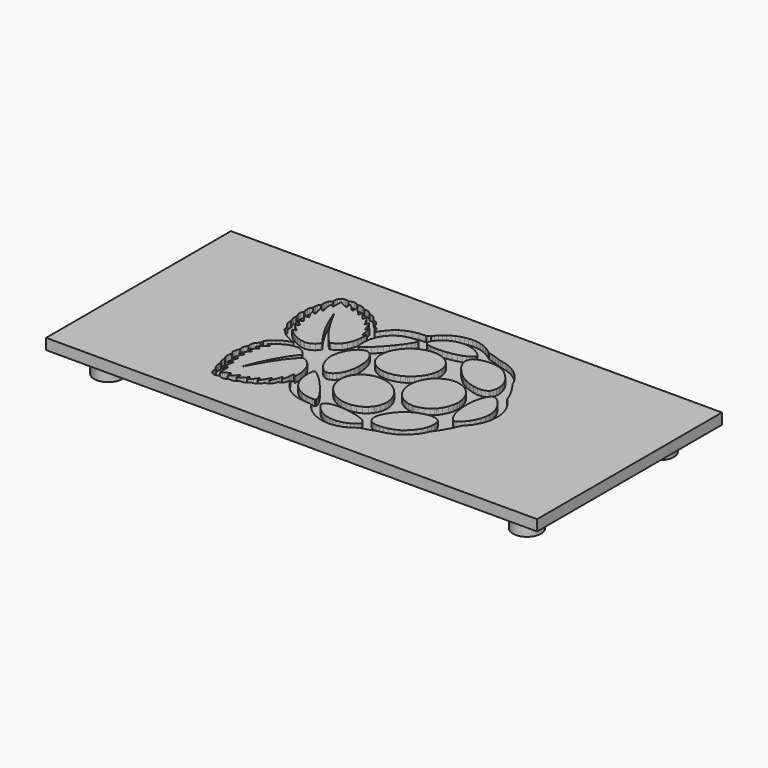
from build123d import *

# Parameters (mm, degrees)
F2_START = 6.1
F0_W     = 68
F0_H     = 32
F0_R     = 1.95
F0_R_2   = 1.45
F2_DEPTH = 1.5
F3_START = 3
F3_DEPTH = 3.1
F4_START = 6.8
F4_DEPTH = 1.2


with BuildPart() as f2:
    # F0 (on Top) → F2 (new body)
    with BuildSketch(Plane.XY.offset(F2_START)):
        Rectangle(F0_W, F0_H)
        with Locations((-29, -11.5)):
            Circle(F0_R, mode=Mode.SUBTRACT)
        with Locations((29, -11.5)):
            Circle(F0_R, mode=Mode.SUBTRACT)
        with Locations((-29, 11.5)):
            Circle(F0_R, mode=Mode.SUBTRACT)
        with Locations((29, 11.5)):
            Circle(F0_R, mode=Mode.SUBTRACT)
        with Locations((-29, 11.5)):
            Circle(F0_R)
        with Locations((-29, 11.5)):
            Circle(F0_R_2, mode=Mode.SUBTRACT)
        with Locations((-29, -11.5)):
            Circle(F0_R)
        with Locations((-29, -11.5)):
            Circle(F0_R_2, mode=Mode.SUBTRACT)
        with Locations((29, -11.5)):
            Circle(F0_R)
        with Locations((29, -11.5)):
            Circle(F0_R_2, mode=Mode.SUBTRACT)
        with Locations((29, 11.5)):
            Circle(F0_R)
        with Locations((29, 11.5)):
            Circle(F0_R_2, mode=Mode.SUBTRACT)
        with Locations((-29, 11.5)):
            Circle(F0_R_2)
        with Locations((-29, -11.5)):
            Circle(F0_R_2)
        with Locations((29, -11.5)):
            Circle(F0_R_2)
        with Locations((29, 11.5)):
            Circle(F0_R_2)
    extrude(amount=F2_DEPTH)

    # F0 (on Top) → F3 (join)
    with BuildSketch(Plane.XY.offset(F3_START)):
        with Locations((-29, 11.5)):
            Circle(F0_R)
        with Locations((-29, 11.5)):
            Circle(F0_R_2, mode=Mode.SUBTRACT)
        with Locations((-29, -11.5)):
            Circle(F0_R)
        with Locations((-29, -11.5)):
            Circle(F0_R_2, mode=Mode.SUBTRACT)
        with Locations((29, -11.5)):
            Circle(F0_R)
        with Locations((29, -11.5)):
            Circle(F0_R_2, mode=Mode.SUBTRACT)
        with Locations((29, 11.5)):
            Circle(F0_R)
        with Locations((29, 11.5)):
            Circle(F0_R_2, mode=Mode.SUBTRACT)
    extrude(amount=F3_DEPTH)

    # F1 (on Top) → F4 (cut)
    with BuildSketch(Plane.XY.offset(F4_START)):
        Polygon((-16.2235200614, -5.8005121054), (-16.2232631265, -5.8000410581), (-16.2220640972, -5.8404654734), (-16.1695637444, -6.0530362332), (-16.0420384175, -6.2832926748), (-16.0030271438, -6.3325385196), (-16.0369425431, -6.4201104785), (-16.1150079128, -6.6916906072), (-16.1510216132, -7.0418071529), (-16.0810496911, -7.3800618733), (-15.9381939185, -7.632842936), (-15.8747310124, -7.7027720357), (-15.8880059793, -7.8040900087), (-15.8931018537, -8.1121548851), (-15.8364477208, -8.393969585), (-15.7260513834, -8.5842255538), (-15.6219499497, -8.6890121472), (-15.5834097233, -8.7192105557), (-15.5838807705, -8.7410500173), (-15.5894905145, -8.8065641199), (-15.5977980744, -8.951766564), (-15.5977980744, -9.1401854487), (-15.5790418309, -9.3564817637), (-15.5304383232, -9.58602307), (-15.4414532227, -9.8137015986), (-15.3016378458, -10.0246536689), (-15.1552706304, -10.1666058873), (-15.0997298819, -10.2037800767), (-15.1104355003, -10.2936858605), (-15.1076092171, -10.5676040963), (-15.0444460682, -10.8635887528), (-14.9205606516, -11.0917297641), (-14.747515035, -11.2522669361), (-14.5356294347, -11.3452002687), (-14.2960805164, -11.370756721), (-14.0396167209, -11.3289405754), (-13.8391218987, -11.2538984723), (-13.7768580218, -11.2199745086), (-13.7145941449, -11.2603989238), (-13.5212934983, -11.3723796928), (-13.2378943668, -11.4583458089), (-12.8974985227, -11.408855876), (-12.5673372498, -11.2308942394), (-12.4706869265, -11.154460406), (-12.4082089372, -11.1860548271), (-12.1972226089, -11.2341444652), (-11.9075285738, -11.203016809), (-11.5969371714, -11.0592060953), (-11.3393171692, -10.8712539756), (-11.2607379298, -10.8003956282), (-11.1763776564, -10.8192161055), (-10.9120345258, -10.8245560679), (-10.6118489845, -10.7392922404), (-10.3539720474, -10.5594721085), (-10.1804125612, -10.3696614934), (-10.1316377635, -10.2999636351), (-10.0199139295, -10.3120395727), (-9.671167703, -10.2295677705), (-9.3154842357, -9.9872525203), (-9.0615469662, -9.6917303465), (-8.9419009745, -9.5146979576), (-8.9063154987, -9.4621933225), (-8.8319756843, -9.4473253596), (-8.6136667129, -9.376929495), (-8.3429858561, -9.2077935703), (-8.1078476526, -8.9034456846), (-7.9551855336, -8.5389236588), (-7.9222550512, -8.4125545387), (-7.8276602066, -8.391614349), (-7.5604479702, -8.2536403385), (-7.3349020008, -7.9978188801), (-7.1976131499, -7.6793053201), (-7.1232305129, -7.4193300818), (-7.0997637973, -7.3322291701), (-7.016131506, -7.4762411494), (-6.7477630628, -7.8979568712), (-6.3523831624, -8.4299832855), (-5.8970517986, -8.9155301867), (-5.3645543371, -9.3411470359), (-4.7386182379, -9.6942868482), (-4.0023714461, -9.961696068), (-3.1391131972, -10.1303609454), (-2.3833393574, -10.1879828662), (-2.1314575666, -10.1870536185), (-1.7286265557, -10.4128693695), (-1.6768113624, -10.4983687206), (-1.4999973682, -10.7413862594), (-1.2200668571, -11.0598998193), (-0.8929459798, -11.3628559746), (-0.5235164985, -11.6446706746), (-0.1160606605, -11.8992973859), (0.3251392869, -12.1211734693), (0.795415694, -12.304710592), (1.2904863134, -12.4441063086), (1.8060260752, -12.5335538919), (2.3371103951, -12.5674735734), (2.8798424278, -12.5400586256), (3.4297686361, -12.4457335626), (3.9819644355, -12.2786873747), (4.5323616911, -12.0331176165), (5.0764640429, -11.7034488021), (5.4832775439, -11.3963131734), (5.6101177112, -11.2838699217), (5.765563291, -11.2552902027), (6.2279175405, -11.1437719165), (6.782468576, -10.9753382804), (7.3031042122, -10.7917968755), (7.6899196179, -10.6514761934), (7.819543246, -10.6063969753), (8.0691126232, -10.5743400714), (8.8060017521, -10.3838357323), (9.6558565668, -10.0169884461), (10.3735184049, -9.5502406109), (10.9622417744, -9.0270484729), (11.4264373902, -8.4917761152), (11.7698008318, -7.9880981785), (11.9963188713, -7.5599162632), (12.0901814516, -7.3306019161), (12.1101624179, -7.2511234047), (12.2416573881, -7.0782919005), (12.6236038785, -6.5492630594), (13.1084741847, -5.7983709817), (13.5496570031, -4.9715546579), (13.8488961676, -4.2789867894), (13.9320659762, -4.0422213319), (14.1560275141, -3.8250257448), (14.7496240811, -3.0918193487), (15.2983812359, -2.1116129238), (15.606214871, -1.1105091318), (15.7023984293, -0.350581512), (15.7023984293, -0.0973294021), (15.7023984293, -0.0824700037), (15.7023984293, -0.0424738132), (15.7023984293, -0.0373779388), (15.7023984293, 0.2156172363), (15.6064461123, 0.9755448561), (15.2983812359, 1.9766486482), (14.7496240811, 2.956855073), (14.1560275141, 3.6900614691), (13.9320659762, 3.907513991), (13.8488961676, 4.1439796912), (13.5496570031, 4.8365903822), (13.1084741847, 5.6631925936), (12.6236038785, 6.4142987837), (12.2416573881, 6.9433276249), (12.1101624179, 7.1164160639), (12.0904169752, 7.1956376404), (11.9963188713, 7.4249519875), (11.7698008318, 7.8529197905), (11.4264373902, 8.3565977271), (10.9622417744, 8.8921355842), (10.3735184049, 9.4150408116), (9.6558565668, 9.8820198882), (8.8060017521, 10.2488800211), (8.0691126232, 10.4393972069), (7.819543246, 10.4716853522), (7.6899196179, 10.5165204822), (7.3031042122, 10.6568069063), (6.782468576, 10.8403440289), (6.2279175405, 11.0088076408), (5.765563291, 11.1203173625), (5.6101177112, 11.1491797099), (5.4832775439, 11.2613317687), (5.0764640429, 11.5685401956), (4.5323616911, 11.8981447763), (3.9817503232, 12.1437316635), (3.4295117013, 12.3107821337), (2.879585493, 12.4051200434), (2.3368962827, 12.4325264266), (1.805555028, 12.3986110274), (1.2902293785, 12.3091548797), (0.7951587591, 12.1697677275), (0.3247110622, 11.9862306049), (-0.1164888852, 11.7643245457), (-0.5239875457, 11.5094451818), (-0.8934170271, 11.2278874167), (-1.2205379043, 10.9249184147), (-1.5004684154, 10.6061907423), (-1.6772824096, 10.3631732036), (-1.7290976029, 10.2779136583), (-2.1319286138, 10.0518966417), (-2.3837675821, 10.0525389788), (-3.1393273095, 9.9948999291), (-4.002628381, 9.8263078498), (-4.7388751727, 9.5588386785), (-5.364811272, 9.2057245597), (-5.897265911, 8.7801119928), (-6.3526400972, 8.2945479626), (-6.7482769325, 7.7624787258), (-7.0166025532, 7.3408058265), (-7.1002348445, 7.197050782), (-7.1234874478, 7.2838947588), (-7.1978272622, 7.5439128197), (-7.3351161132, 7.8624263796), (-7.5607049051, 8.1182050155), (-7.8280884314, 8.2562218486), (-7.922683276, 8.2773761506), (-7.9554424684, 8.4035311584), (-8.1082758773, 8.7680360552), (-8.3431999685, 9.0726323112), (-8.6140521152, 9.2417382602), (-8.8324467315, 9.3118814722), (-8.906786546, 9.3269978055), (-8.9423720217, 9.379284046), (-9.0620180134, 9.556526265), (-9.3159552829, 9.8518300442), (-9.6716815727, 10.0941196008), (-10.0203849767, 10.1765956853), (-10.1321088108, 10.1647766826), (-10.1808836084, 10.234234735), (-10.3544430946, 10.4242808737), (-10.6123200318, 10.6041352636), (-10.912505573, 10.689137874), (-11.1771056385, 10.6838278873), (-11.261208977, 10.6652001112), (-11.3397025714, 10.7358571929), (-11.5973653962, 10.9238050303), (-11.907999621, 11.0676028973), (-12.1976936561, 11.0987348357), (-12.4086799845, 11.0506023752), (-12.4712007962, 11.0192563244), (-12.5675941847, 11.0956944401), (-12.8977554575, 11.2736646412), (-13.2380656567, 11.3231674208), (-13.5215076106, 11.2369657811), (-13.7148082573, 11.1249421897), (-13.7770721342, 11.0848175318), (-13.8393788335, 11.1184759962), (-14.0398736558, 11.1935437927), (-14.2962946288, 11.2351244147), (-14.5358863696, 11.2095165754), (-14.7477291474, 11.1166346298), (-14.9208175864, 10.9560931756), (-15.0444460682, 10.7279350353), (-15.1078661519, 10.4319460965), (-15.1104355003, 10.1580535542), (-15.0997298819, 10.0681263592), (-15.1552706304, 10.030956452), (-15.3016378458, 9.8889999514), (-15.4414532227, 9.6780136231), (-15.5304383232, 9.4503693524), (-15.5790418309, 9.2210978278), (-15.5980550093, 9.0045445779), (-15.5977980744, 8.8163398056), (-15.5896618044, 8.6709146847), (-15.5841377053, 8.6053962998), (-15.5836666581, 8.583813773), (-15.6222068845, 8.5533669941), (-15.7262654958, 8.4485375783), (-15.8366618332, 8.2582773273), (-15.8933587885, 7.9767195622), (-15.8882200916, 7.6686546858), (-15.8749879472, 7.5675936477), (-15.9384508534, 7.4974076131), (-16.0813066259, 7.2446265504), (-16.1512357256, 6.9064146525), (-16.1151792027, 6.5562552843), (-16.0369425431, 6.2847179781), (-16.0032840787, 6.1973173091), (-16.0710720547, 6.1113726042), (-16.2060913145, 5.7995821726), (-16.2007385053, 5.4513498158), (-16.0848180688, 5.129324813), (-15.981615907, 4.8919170183), (-15.9558796002, 4.8103830282), (-15.989752177, 4.7067098192), (-16.0364714959, 4.37868967), (-15.9830290486, 4.08060243), (-15.8635971692, 3.848761557), (-15.7679317628, 3.6765723899), (-15.7453643191, 3.6159785895), (-15.7699872415, 3.4995871058), (-15.7776524643, 3.1364097056), (-15.6652006482, 2.7925880636), (-15.4537860951, 2.5228493013), (-15.2547044145, 2.3299768793), (-15.1889290948, 2.265229299), (-15.1973222996, 1.8428284176), (-15.1352725351, 1.7373566647), (-14.9150365525, 1.4408966787), (-14.5830339132, 1.0905660207), (-14.2178010343, 0.7889673378), (-13.8349681187, 0.5341307963), (-13.450679239, 0.3234014028), (-13.0808215329, 0.1545095662), (-12.7413677833, 0.0246718257), (-12.5222880074, -0.0473555752), (-12.4484192401, -0.0682957648), (-12.5222880074, -0.0894072444), (-12.7413677833, -0.1614346453), (-13.0808215329, -0.2911010959), (-13.450679239, -0.4599929325), (-13.8349681187, -0.6705082136), (-14.2178010343, -0.9251306428), (-14.5830339132, -1.2261726334), (-14.9150365525, -1.5763320016), (-15.1352725351, -1.8727919876), (-15.1973222996, -1.9780068056), (-15.1889290948, -2.400407687), (-15.2547044145, -2.4654122022), (-15.4537860951, -2.658541559), (-15.6652006482, -2.9284944337), (-15.7776524643, -3.2723160757), (-15.7699872415, -3.6354078309), (-15.7453643191, -3.7515852023), (-15.7679317628, -3.81247876), (-15.8635971692, -3.9845822821), (-15.9830290486, -4.2162518653), (-16.0364714959, -4.5143391053), (-15.989752177, -4.8426161893), (-15.9558796002, -4.9459468186), (-15.9727944774, -4.9996890232), (-16.0371566555, -5.1565049221), (-16.1270838504, -5.3646649672), (-16.1983832692, -5.5772357271), (-16.2253614277, -5.7449713569), align=None)
        Polygon((-6.586536449, -4.3584653007), (-6.5438424426, -4.1058555279), (-6.5387037458, -4.0745094771), (-6.455114277, -3.9913910555), (-6.2645542686, -4.0222660591), (-5.9892914072, -4.1798099401), (-5.6456410551, -4.4451379877), (-5.2509034917, -4.7989372661), (-4.8216081921, -5.222922579), (-4.3745843882, -5.6977809908), (-3.9261902653, -6.2047562579), (-3.4936404576, -6.7247067345), (-3.093550085, -7.239304402), (-2.7427483798, -7.7290222121), (-2.4579361067, -8.1753180339), (-2.2555142731, -8.5591358664), (-2.1528688035, -8.8616252567), (-2.1660581254, -9.0639785743), (-2.274570274, -9.144137963), (-2.3124253408, -9.146925706), (-2.5800658019, -9.1552889352), (-3.3862845158, -9.072350368), (-4.3222981478, -8.793323411), (-5.1117732744, -8.3323908677), (-5.745331774, -7.7130066069), (-6.2144091518, -6.9577038144), (-6.5098842209, -6.0895209809), (-6.6225929719, -5.1311540177), align=None, mode=Mode.SUBTRACT)
        Polygon((-13.1131096782, -7.639351952), (-13.2613182599, -8.0745139306), (-13.1216741729, -7.8033620266), (-12.6893384776, -6.9965009756), (-12.1436088717, -6.0318819312), (-11.6236583951, -5.1753039881), (-11.1273887464, -4.4209004675), (-10.6541575886, -3.76348985), (-10.2024661352, -3.1970341668), (-9.7708584219, -2.716566011), (-9.4651059591, -2.4122266898), (-9.3580069522, -2.3163043485), (-9.1870168144, -2.3589983549), (-8.7002965774, -2.5922951921), (-8.1994021015, -3.0200060602), (-7.8348543822, -3.5557152072), (-7.5862699219, -4.156300402), (-7.4331795782, -4.777782964), (-7.3548572736, -5.3767409048), (-7.3314333804, -5.9097094135), (-7.3358012728, -6.2270667667), (-7.341882064, -6.3325385196), (-7.3583687165, -6.2974240911), (-7.4134384177, -6.1949499114), (-7.4952293427, -6.0759890792), (-7.5908947491, -5.9823791515), (-7.6747839752, -5.9315488751), (-7.7047597069, -5.9210573691), (-7.7442420277, -5.9765981175), (-7.7837243485, -6.1982044194), (-7.8179395051, -6.621076348), (-7.8825157956, -7.1091669041), (-7.9909851216, -7.4746567179), (-8.0516217445, -7.5824408844), (-8.0595010797, -7.5452709771), (-8.0883206045, -7.434446415), (-8.1359391954, -7.3198962976), (-8.2061252299, -7.2279136239), (-8.2823064108, -7.1647076526), (-8.309712794, -7.1470647934), (-8.3429858561, -7.2515944519), (-8.4401072267, -7.5656972971), (-8.5766680956, -7.9731959577), (-8.7351112486, -8.342625439), (-8.8733850164, -8.5781918672), (-8.9307671313, -8.6469561956), (-8.9305530189, -8.6118760251), (-8.9258853693, -8.5063785787), (-8.9300391492, -8.3623665994), (-8.9669949441, -8.2076061791), (-9.0320422818, -8.0742569958), (-9.0597055998, -8.0340895154), (-9.1266371264, -8.1581462219), (-9.4504606731, -8.7837954106), (-9.8447271892, -9.3669390118), (-9.9467303218, -9.469627304), (-9.9478865285, -9.4217689073), (-9.9513551489, -9.2772601873), (-9.9622748797, -9.0974357731), (-9.989681263, -8.950606075), (-10.0242818218, -8.8732429939), (-10.043551935, -8.856747777), (-10.1139949044, -8.9703557999), (-10.4887343724, -9.4847307905), (-10.8936636845, -9.9307953709), (-10.9789232298, -10.0100169474), (-10.9722001014, -9.9523993089), (-10.9608093234, -9.7776878981), (-10.9678322091, -9.6097167447), (-10.9942964979, -9.4926272546), (-11.0226021531, -9.4312926254), (-11.0353632503, -9.4131701545), (-11.1018237296, -9.4782217745), (-11.2916557558, -9.682669111), (-11.5453360905, -9.9561162996), (-11.8141755809, -10.2042425595), (-12.0359959951, -10.3587417626), (-12.116159666, -10.3970721589), (-12.0999299485, -10.3494450036), (-12.0599765804, -10.2023883464), (-12.035353658, -10.0204741955), (-12.0532534521, -9.8552865029), (-12.1004009957, -9.7428432512), (-12.1243387585, -9.7114800714), (-12.1770532238, -9.7349425048), (-12.3101882948, -9.8615599953), (-12.5088417506, -10.0992332893), (-12.7731848813, -10.3689677694), (-13.054528534, -10.5671373313), (-13.1565316666, -10.6147687689), (-13.1516499046, -10.5624953751), (-13.1365335713, -10.405435388), (-13.1235583618, -10.2135393185), (-13.1270269822, -10.0629883474), (-13.1421433154, -9.9918944765), (-13.1565316666, -9.9777245199), (-13.2476150683, -10.0000264642), (-13.5145703699, -10.0913325428), (-13.8079471378, -10.2307282595), (-14.0600858634, -10.3866191931), (-14.235486716, -10.5088216865), (-14.2933398781, -10.5499441081), (-14.2951812445, -10.427972856), (-14.2977505929, -10.0618278584), (-14.3019043728, -9.5757970632), (-14.3141944228, -9.2098875892), (-14.3418577409, -9.0823365688), (-14.7207938114, -9.4531278048), (-14.7493992239, -9.3471935692), (-14.7814732567, -9.0140347232), (-14.7502984958, -8.5863195728), (-14.6643537909, -8.1869657468), (-14.5871876932, -7.9204814924), (-14.5595671976, -7.8321815515), (-14.5809784345, -7.8052462155), (-14.6824676973, -7.7541161818), (-14.8169730875, -7.7906009294), (-14.9601286174, -7.9084055548), (-15.0722806762, -8.0317771018), (-15.1078661519, -8.0742569958), (-15.0913794995, -7.949729242), (-14.9728468921, -7.3626759489), (-14.8086227051, -6.821100123), (-14.7691403843, -6.7193539253), (-14.7940202416, -6.6919475421), (-14.9164068716, -6.6524223988), (-15.0637161814, -6.7300595437), (-15.2107685564, -6.8810515863), (-15.3183386105, -6.999070324), (-15.3578209314, -7.0339278177), (-15.333925991, -6.9077728099), (-15.238389052, -6.5332474542), (-15.1020422955, -6.1573517794), (-14.9545188733, -5.8648742835), (-14.840696738, -5.6764553988), (-14.8014285295, -5.6144056343), (-14.8332456275, -5.581389507), (-14.9647534445, -5.5158711221), (-15.1189571726, -5.5395947726), (-15.2676796241, -5.6371871903), (-15.3773479794, -5.7295980888), (-15.4142609518, -5.7595738204), (-15.3778190266, -5.6606110835), (-15.2426284769, -5.3727584147), (-15.0534816102, -5.0633232192), (-14.8534578352, -4.8038190281), (-14.6998964442, -4.6253777798), (-14.6482953633, -4.5661542986), (-14.6754876341, -4.5461562033), (-14.7535530038, -4.4817940252), (-14.8704155348, -4.4153763684), (-15.0256041798, -4.4060410691), (-15.194281904, -4.4646222132), (-15.2449408905, -4.4933989156), (-15.1857174092, -4.3905393336), (-14.8583395972, -3.9493393862), (-14.4928926059, -3.5991800181), (-14.414356189, -3.5417979032), (-14.4387649991, -3.5036859016), (-14.5463350532, -3.4105470211), (-14.6931304933, -3.3700797834), (-14.8478909136, -3.377273959), (-14.9645393322, -3.3889644943), (-15.0030795586, -3.3887075595), (-14.9161499368, -3.2818226649), (-14.4680127486, -2.8367258724), (-14.0131524321, -2.4394189607), (-13.9224972551, -2.3562148941), (-13.9348301276, -2.3395141293), (-14.0807262958, -2.2619626293), (-14.3330791338, -2.1919907071), (-14.3982977613, -2.1789726751), (-14.2962946288, -2.0737150345), (-13.9622365108, -1.7839781769), (-13.4202324601, -1.3957924521), (-12.8075713277, -1.0607922397), (-12.1598814118, -0.8254399238), (-11.5121486733, -0.7361978884), (-10.8999585882, -0.8391859379), (-10.3581686499, -1.1811662135), (-10.002699295, -1.6378678964), (-9.9222786892, -1.8079587623), (-10.1983123552, -2.1425307499), (-10.9513027342, -3.207268738), (-11.8422671237, -4.7254967235), (-12.6080185999, -6.3518086328), align=None, mode=Mode.SUBTRACT)
        Polygon((-0.9682278888, -9.7342487807), (-1.0376859412, -9.61250877), (-1.0549005757, -9.5490801218), (-1.0341744984, -9.3390572992), (-0.8752602982, -9.1253174858), (-0.5832538495, -8.9678035805), (-0.1808510633, -8.8625545044), (0.3098516638, -8.8061016372), (0.8659871308, -8.7951819064), (1.4651591839, -8.8258470799), (2.0852286043, -8.8946199728), (2.7032425459, -8.9980062712), (3.2973187247, -9.1322889845), (3.8444186498, -9.2937511219), (4.3225315695, -9.4791510221), (4.7091328628, -9.6845276064), (4.981655086, -9.9066306489), (5.1176164402, -10.1415119176), (5.118044665, -10.3327228276), (5.0945779494, -10.3856899454), (5.0385661536, -10.4551565623), (4.8497190443, -10.6463589078), (4.5583549327, -10.8805464524), (4.226138181, -11.0852250303), (3.8592780482, -11.2571444158), (3.4641122601, -11.3935211481), (3.0461220935, -11.4906339541), (2.6117309195, -11.5454638496), (2.1670195292, -11.55499185), (1.7179402467, -11.5157279238), (1.2704882181, -11.4248928924), (0.8309155247, -11.2789838775), (0.405046023, -11.0747677822), (-0.0005684487, -10.8092213401), (-0.3804466136, -10.4793170021), (-0.7282079232, -10.0813420597), align=None, mode=Mode.SUBTRACT)
        Polygon((6.9982938438, -5.4745046125), (7.1258191707, -5.3646649672), (7.2454651625, -5.2654452954), (7.6343788694, -5.0033717559), (8.2024189841, -4.7041283091), (8.8008630552, -4.4757560564), (9.4002920432, -4.327761587), (9.9713725536, -4.2692660878), (10.4850281266, -4.3087484087), (10.9118397228, -4.456014896), (11.1632076439, -4.6400230659), (11.22268806, -4.7194587547), (11.272404952, -4.8019776617), (11.372994943, -5.07839673), (11.4450223439, -5.5267908529), (11.4248101362, -6.043700934), (11.299340288, -6.6092145227), (11.0553806549, -7.2025627195), (10.6799560273, -7.8033620266), (10.159320391, -8.3911433018), (9.6598390568, -8.8205071174), (9.4806698265, -8.9452661125), (9.3261663411, -9.0316904291), (8.842058275, -9.2537977539), (8.2152229038, -9.467533285), (7.6151087562, -9.5925278037), (7.0563611183, -9.6352731971), (6.5535824536, -9.6018202805), (6.121674983, -9.4984339821), (5.7750698802, -9.3313877941), (5.578557548, -9.1720196757), (5.5290547683, -9.1067325322), (5.4735140199, -9.0158932185), (5.3656870309, -8.7071260536), (5.3264188224, -8.2668724829), (5.401486619, -7.7966388982), (5.5799278672, -7.3068782656), (5.8519790431, -6.8083390258), (6.2071914632, -6.3111701052), (6.6351164437, -5.8265053469), align=None, mode=Mode.SUBTRACT)
        Polygon((-2.7390228246, -2.231473028), (-2.6488386948, -2.094184177), (-2.5592112572, -1.9571522609), (-2.2241682223, -1.5883651167), (-1.7025904916, -1.2004363267), (-1.1038894857, -0.9332669128), (-0.4482345896, -0.7887410638), (0.2438194092, -0.7694709506), (0.9528739301, -0.8781972115), (1.6584598306, -1.1170609703), (2.1793524017, -1.3818751481), (2.3408359503, -1.4885459303), (2.5022766765, -1.5953880024), (2.9504566871, -1.9708126301), (3.4480538324, -2.527033742), (3.8281889322, -3.1380247979), (4.0846527277, -3.7840874599), (4.2117498299, -4.4457803248), (4.2042987194, -5.1037476344), (4.0558332028, -5.7384623408), (3.8514415355, -6.1933654798), (3.7615143405, -6.3304402184), (3.6715871456, -6.4677290694), (3.3365441107, -6.8364733911), (2.8150092025, -7.2244021811), (2.2162653741, -7.491571595), (1.5606533005, -7.636097444), (0.8685564792, -7.6554103797), (0.1595019583, -7.5466412963), (-0.5460839422, -7.30782036), (-1.0669765133, -7.0427492473), (-1.2282031271, -6.9361212876), (-1.3898579656, -6.8294505054), (-1.8380807987, -6.4540258777), (-2.335677944, -5.8975906534), (-2.7157273989, -5.2868137099), (-2.9722768393, -4.6407510479), (-3.0993739415, -3.979058183), (-3.091922831, -3.3208339385), (-2.9434573144, -2.686376167), align=None, mode=Mode.SUBTRACT)
        Polygon((11.3160838753, -0.1208389402), (11.319766608, 0.0225735245), (11.3135145269, 0.1635879307), (11.3230211161, 0.5880014683), (11.3771915454, 1.1714148512), (11.4775246015, 1.7443367279), (11.6192541429, 2.277519349), (11.7967532968, 2.7426142367), (12.0056156304, 3.1108446888), (12.2407281404, 3.3536481151), (12.4328640158, 3.4414770088), (12.4972176294, 3.441948056), (12.569707513, 3.4442604696), (12.7906457843, 3.3689785607), (13.1365785742, 3.1475863713), (13.5062136034, 2.7990970796), (13.8709668706, 2.3458211946), (14.2020316977, 1.8095981779), (14.4708326478, 1.2129954732), (14.648563043, 0.5775956072), (14.7096621486, 0.0883060218), (14.7068786878, -0.0743337337), (14.7140814279, -0.2413842039), (14.664591495, -0.7454903652), (14.5003373323, -1.3930089913), (14.2452438559, -1.9956924873), (13.9299805217, -2.5334999356), (13.5859019449, -2.9858337261), (13.243917387, -3.3317964918), (12.9351545043, -3.5508334452), (12.7509150931, -3.6251732597), (12.6907452352, -3.6226467337), (12.6196556464, -3.6251732597), (12.4033593314, -3.5334046984), (12.1380441306, -3.2683335857), (11.9001395952, -2.8634042736), (11.6952212114, -2.3539024805), (11.5291256824, -1.774942635), (11.4073813894, -1.1622815026), (11.3358250357, -0.5515473815), align=None, mode=Mode.SUBTRACT)
        Polygon((-13.1216741729, 7.7364854843), (-13.2613182599, 8.0075945658), (-13.1133237905, 7.5717474276), (-12.6084468246, 6.2842469309), (-11.8426953485, 4.6581491339), (-10.9517737814, 3.1401780833), (-10.1985692901, 2.0756113851), (-9.9225356241, 1.7415532671), (-10.0031703422, 1.5712482889), (-10.3583827622, 1.1145037835), (-10.9001727005, 0.7727376202), (-11.5123627857, 0.6696211034), (-12.1600527017, 0.7589916062), (-12.8078282626, 0.9943439221), (-13.420489395, 1.3291300221), (-13.9624934456, 1.7174013919), (-14.2962946288, 2.007095427), (-14.3985546962, 2.1125671799), (-14.3332504237, 2.1253282771), (-14.0809404081, 2.1955143117), (-13.93504424, 2.2730658117), (-13.92275419, 2.2900663338), (-14.0133665445, 2.3730134655), (-14.4682696835, 2.7702775548), (-14.9164068716, 3.2151602349), (-15.0032936709, 3.3223020643), (-14.9645393322, 3.3225161767), (-14.8478909136, 3.3109112863), (-14.6931304933, 3.3037171107), (-14.5463350532, 3.3440987034), (-14.4389791114, 3.437066294), (-14.4146131238, 3.4753924081), (-14.4931067183, 3.5327745229), (-14.858596532, 3.8828910686), (-15.1858886991, 4.324091016), (-15.2451978253, 4.4272075328), (-15.1944960164, 4.3982167181), (-15.0258611146, 4.3396783964), (-14.8706724696, 4.3489708732), (-14.7538099387, 4.4153885301), (-14.6757017465, 4.4794937733), (-14.6485094756, 4.4997059809), (-14.7001105565, 4.5587153498), (-14.8536719475, 4.7371565981), (-15.053738545, 4.9968749016), (-15.2427997668, 5.3061388072), (-15.3780759615, 5.5942055883), (-15.4145178867, 5.6933824376), (-15.3775620918, 5.6631925936), (-15.2678937364, 5.5705247603), (-15.1192141075, 5.4729323426), (-14.9650103794, 5.4492515146), (-14.8337166747, 5.514727077), (-14.8015998194, 5.5482142515), (-14.8409108503, 5.6100070812), (-14.9547758081, 5.7982118534), (-15.1022564078, 6.0906893494), (-15.2386459868, 6.4665850242), (-15.3341829258, 6.8411103799), (-15.3580778662, 6.9674795001), (-15.3185955454, 6.932407894), (-15.2109826688, 6.8146460911), (-15.0639731163, 6.6636112261), (-14.9166638065, 6.5860169036), (-14.7941915314, 6.6252851121), (-14.7693973191, 6.6529056077), (-14.80887964, 6.754437693), (-14.9731038269, 7.2960135189), (-15.0915507894, 7.8833665693), (-15.1080802643, 8.0078515006), (-15.072537611, 7.9651146718), (-14.9602999072, 7.8417003023), (-14.8171871999, 7.7239384994), (-14.6826818097, 7.6877535091), (-14.5811497244, 7.7390548327), (-14.55978131, 7.7659901687), (-14.587444628, 7.8540331748), (-14.6645679033, 8.1203033168), (-14.7505126082, 8.5196657073), (-14.7816873691, 8.9473765754), (-14.7495705138, 9.2805354214), (-14.7210079238, 9.3869492688), (-14.3421146757, 9.0159353559), (-14.3144513577, 9.1434606828), (-14.3021613077, 9.5093787213), (-14.2979647053, 9.9954137987), (-14.2954381793, 10.3615887721), (-14.2935539905, 10.4837612898), (-14.235486716, 10.4423947801), (-14.0602999758, 10.3199653275), (-13.8082040726, 10.1640487005), (-13.5145703699, 10.0246615483), (-13.2476150683, 9.9333640342), (-13.1565316666, 9.9110535254), (-13.1421433154, 9.9250136518), (-13.1270269822, 9.9960989583), (-13.1235583618, 10.1466199537), (-13.1365335713, 10.338807216), (-13.1516499046, 10.4958372274), (-13.1565316666, 10.5483375802), (-13.0543572441, 10.5004620545), (-12.7731848813, 10.302108356), (-12.5088417506, 10.0323267711), (-12.3101882948, 9.7946620417), (-12.1770532238, 9.6682929215), (-12.1243387585, 9.6450831407), (-12.1004009957, 9.6761722567), (-12.0532534521, 9.7886668953), (-12.035353658, 9.9535762419), (-12.0599765804, 10.1357430453), (-12.0999299485, 10.2827954203), (-12.116159666, 10.330670946), (-12.0359959951, 10.2923020095), (-11.8141755809, 10.1375844117), (-11.5453360905, 9.8894709986), (-11.2916557558, 9.616006681), (-11.1018237296, 9.4115721912), (-11.0353632503, 9.3467389659), (-11.0226021531, 9.3646387599), (-10.9942964979, 9.4259605424), (-10.9678322091, 9.5430800082), (-10.9608093234, 9.7110297504), (-10.9722001014, 9.885531331), (-10.9789232298, 9.9433416706), (-10.8936636845, 9.8641200941), (-10.4887343724, 9.4180812072), (-10.1139949044, 8.9034835398), (-10.043551935, 8.7901324517), (-10.0242818218, 8.8065762816), (-9.989681263, 8.8837423794), (-9.9622748797, 9.030580642), (-9.9513551489, 9.2103922094), (-9.9478865285, 9.3549180584), (-9.9467303218, 9.402964874), (-9.8447271892, 9.3003194043), (-9.4504606731, 8.7169060215), (-9.1266371264, 8.0915266144), (-9.0597055998, 7.9676840202), (-9.0320422818, 8.0075945658), (-8.9669949441, 8.1409865716), (-8.9300391492, 8.2957041694), (-8.9258853693, 8.4395020363), (-8.9305530189, 8.5451879016), (-8.9307671313, 8.5805164425), (-8.8733850164, 8.5115294372), (-8.7351112486, 8.275963009), (-8.5766680956, 7.9063194153), (-8.4401072267, 7.4988207548), (-8.3429858561, 7.1846750871), (-8.309712794, 7.0804451859), (-8.2823064108, 7.0978739327), (-8.2061252299, 7.1610370816), (-8.1359391954, 7.2532766901), (-8.0883206045, 7.3675698726), (-8.0595010797, 7.4786085471), (-8.0516217445, 7.5160353892), (-7.9909851216, 7.4079514654), (-7.8825157956, 7.0425472966), (-7.8179395051, 6.5541998056), (-7.7837243485, 6.1315419894), (-7.7442420277, 5.9099356875), (-7.7047597069, 5.8546518739), (-7.6747839752, 5.8648864451), (-7.5908947491, 5.915759544), (-7.4952293427, 6.0091553593), (-7.4134384177, 6.1281161915), (-7.3583687165, 6.2305903712), (-7.341882064, 6.2658332671), (-7.3358012728, 6.1601474019), (-7.3314333804, 5.8427900486), (-7.3548572736, 5.30982154), (-7.4331795782, 4.7109064216), (-7.5862699219, 4.0894666821), (-7.8348543822, 3.4888814873), (-8.1994021015, 2.9531295178), (-8.7002965774, 2.5254186497), (-9.1872309268, 2.292164635), (-9.3580069522, 2.2496419185), (-9.4651059591, 2.3453501474), (-9.7708584219, 2.6496894686), (-10.2024661352, 3.1301576244), (-10.654371701, 3.6965704852), (-11.1276456813, 4.3540667476), (-11.6236583951, 5.1083846233), (-12.1438229841, 5.9650053888), (-12.6893384776, 6.9295816108), align=None, mode=Mode.SUBTRACT)
        Polygon((-7.2568366311, -0.2346610755), (-7.2526828512, -0.0796865429), (-7.2542672827, 0.0623127802), (-7.2078048986, 0.4890387314), (-7.070002178, 1.065472051), (-6.8537486854, 1.623320417), (-6.5728760799, 2.1371901024), (-6.2416014227, 2.5809165757), (-5.8737991954, 2.929191755), (-5.4841575064, 3.1556798188), (-5.1856420417, 3.2358863122), (-5.0862082576, 3.2353724425), (-5.0009058898, 3.2346872829), (-4.7451700764, 3.1740506601), (-4.4278127232, 2.999334967), (-4.1410734387, 2.7177772019), (-3.8918038188, 2.3358007358), (-3.6871123941, 1.8597861172), (-3.5337651155, 1.2961995398), (-3.4390418035, 0.6512502621), (-3.4081239775, 0.1113016902), (-3.4092801842, -0.0682957648), (-3.4113784855, -0.2453238715), (-3.4587829639, -0.7759371441), (-3.5818975761, -1.4153195001), (-3.7682181595, -1.9780068056), (-4.0067821609, -2.4561197254), (-4.2865413822, -2.8418217468), (-4.5969186721, -3.1266768424), (-4.9270371225, -3.3027628546), (-5.1812313269, -3.3624145606), (-5.2657628901, -3.3620291583), (-5.3413017339, -3.3617722234), (-5.5671474606, -3.2885457933), (-5.8967948638, -3.0826981618), (-6.2334223302, -2.763028395), (-6.5551903982, -2.3467083049), (-6.839788559, -1.8525797799), (-7.0653773508, -1.2980287445), (-7.2103742471, -0.7008693476), align=None, mode=Mode.SUBTRACT)
        Polygon((-6.4495045329, 3.6066432902), (-6.4546432298, 3.6382890983), (-6.4973372361, 3.8905562914), (-6.5333509366, 4.6632878308), (-6.420685008, 5.6216119716), (-6.1254240513, 6.4898376275), (-5.6563466735, 7.2451404201), (-5.0227881739, 7.8644818584), (-4.2333130472, 8.3254229662), (-3.2972994153, 8.6044970278), (-2.490866589, 8.6874013371), (-2.2232261279, 8.679265067), (-2.1853282386, 8.6762674939), (-2.0768589125, 8.596103823), (-2.0636695906, 8.3937676343), (-2.1663150602, 8.0912696795), (-2.3686940713, 7.7074946695), (-2.6535491669, 7.2611560253), (-3.0045649845, 6.7713953926), (-3.4046125346, 6.2567977252), (-3.8372051648, 5.736890071), (-4.2853851754, 5.2299148039), (-4.7326230915, 4.7550563921), (-5.1619183912, 4.3310710792), (-5.5566559545, 3.9772289783), (-5.9000921943, 3.7119009308), (-6.1753122333, 3.5543570497), (-6.3658722416, 3.5234820461), align=None, mode=Mode.SUBTRACT)
        Polygon((6.749666561, 3.6380321635), (6.9144474402, 3.6370900691), (7.0788857395, 3.6380321635), (7.5730570869, 3.5699444302), (8.2010058425, 3.3661950999), (8.7802226229, 3.0337642359), (9.1772297773, 2.7052302171), (9.2932358588, 2.5804455285), (9.4107407268, 2.4536481836), (9.7137097288, 2.0266224751), (10.0234018592, 1.400258151), (10.2143900923, 0.7204513798), (10.2799084772, 0.1849563451), (10.2799084772, 0.0065150969), (10.2799084772, -0.1721402638), (10.2143900923, -0.7076781209), (10.0234018592, -1.3873992472), (9.7137097288, -2.0138063937), (9.4107407268, -2.440532345), (9.2932358588, -2.5674153348), (9.1772297773, -2.6924141358), (8.7802226229, -3.0209053321), (8.2010058425, -3.3533790186), (7.5730570869, -3.5571283488), (7.0788857395, -3.6250019698), (6.9144474402, -3.6240598754), (6.749666561, -3.6250019698), (6.2557521484, -3.5571283488), (5.6278033929, -3.3533790186), (5.04854379, -3.0209053321), (4.6515794581, -2.6924141358), (4.5358303114, -2.5674153348), (4.4180685085, -2.440532345), (4.1150995065, -2.0138063937), (3.8054073761, -1.3873992472), (3.6144191431, -0.7076781209), (3.5491148705, -0.1721402638), (3.5491148705, 0.0065150969), (3.5491148705, 0.1849563451), (3.6144191431, 0.7204513798), (3.8054073761, 1.400258151), (4.1150995065, 2.0266224751), (4.4180685085, 2.4533912488), (4.5358303114, 2.5804455285), (4.6515794581, 2.7052302171), (5.04854379, 3.0337642359), (5.6278033929, 3.3661950999), (6.2557521484, 3.5699444302), align=None, mode=Mode.SUBTRACT)
        Polygon((-2.7376525054, 1.8289111136), (-2.8272799431, 1.9661999646), (-2.917207138, 2.1032747031), (-3.1218985627, 2.5579637298), (-3.2703640793, 3.1926356137), (-3.2777723673, 3.8506029233), (-3.1506752651, 4.5125099006), (-2.8941686471, 5.1583584502), (-2.5141191923, 5.7693923286), (-2.0164792245, 6.3255706181), (-1.5682992139, 6.7010380682), (-1.4066443753, 6.8079229628), (-1.2453749391, 6.9145509225), (-0.724482368, 7.1794079228), (-0.0189392899, 7.4181860366), (0.6901152309, 7.5269122976), (1.3822548747, 7.5078991192), (2.0378241258, 7.3633732702), (2.6365679542, 7.0959469214), (3.1581456849, 6.7079753089), (3.4931458973, 6.3393166322), (3.5830730923, 6.2021990711), (3.6730002872, 6.0648673977), (3.877434777, 5.610264016), (4.0259002936, 4.9755493096), (4.0333085816, 4.3175391775), (3.9062114794, 3.6557178452), (3.6497476839, 3.0097836506), (3.2696554066, 2.3987925947), (2.7720154388, 1.8423573704), (2.3238782507, 1.4669327427), (2.1623947021, 1.360304783), (2.0009111534, 1.2534198884), (1.4800185823, 0.9885628881), (0.7744755043, 0.7497419518), (0.0653781609, 0.6412298033), (-0.6266758379, 0.6602858041), (-1.2823307339, 0.8048116531), (-1.8809889174, 1.0721951794), (-2.4026094706, 1.4601667919), align=None, mode=Mode.SUBTRACT)
        Polygon((-1.1440997886, 9.0930158087), (-1.1269279766, 9.1567356497), (-1.0574271016, 9.2782230078), (-0.8174071361, 9.6253419803), (-0.4696458265, 10.0230342943), (-0.0897676616, 10.3531955672), (0.3161037449, 10.6187377271), (0.7416734894, 10.8227011697), (1.1815031176, 10.9686401604), (1.6286982113, 11.0597235621), (2.0780344287, 11.0987348357), (2.5227458189, 11.0892282466), (2.9571798155, 11.0343726577), (3.375169982, 10.9372512871), (3.7705498825, 10.8008617081), (4.1374100154, 10.6289722984), (4.4693698321, 10.4242808737), (4.7609480561, 10.190127587), (4.9495810531, 9.9988824191), (5.0056356713, 9.9296813015), (5.0290595645, 9.8764529666), (5.0285885173, 9.6852077987), (4.8926699855, 9.4503693524), (4.6201477623, 9.2282920034), (4.2338034039, 9.0229154191), (3.7556904841, 8.8375369301), (3.2083336242, 8.6760533815), (2.6145143802, 8.5417621037), (1.9962863263, 8.438388652), (1.3761740834, 8.3695729367), (0.7770020302, 8.3389548679), (0.2208665632, 8.3498317762), (-0.2697933414, 8.4063146192), (-0.6724530623, 8.5115294372), (-0.9642453987, 8.6692446082), (-1.1234165337, 8.8830143973), align=None, mode=Mode.SUBTRACT)
        Polygon((6.8560804084, 5.0935252249), (6.729240241, 5.2018232611), (6.7289833062, 5.2018232611), (6.5961051701, 5.3193709516), (6.2104887936, 5.6869162441), (5.7532304186, 6.1747926879), (5.3707829052, 6.6589863989), (5.0774061374, 7.1335878759), (4.8866748391, 7.5929445521), (4.8128060719, 8.030847169), (4.8692460923, 8.4416003376), (5.0056356713, 8.7360048448), (5.0702119618, 8.8193802013), (5.1379999378, 8.8874251121), (5.3887255218, 9.0460823775), (5.8417444719, 9.2333878778), (6.396980667, 9.3664801263), (7.0221887842, 9.4310992392), (7.6852519682, 9.412728398), (8.3536679615, 9.2965510266), (8.995619666, 9.0683928863), (9.4451271733, 8.8177529473), (9.5789474038, 8.713694336), (9.7680942705, 8.577304757), (10.2928836867, 8.1086984264), (10.8291067034, 7.4741978323), (11.2036320591, 6.832074838), (11.432475359, 6.2040404375), (11.5321232555, 5.6121053824), (11.5188911111, 5.0782376017), (11.4087517086, 4.6242765572), (11.2784429208, 4.3505553048), (11.2184914575, 4.2722758227), (11.1457788971, 4.1951525474), (10.8574551811, 4.0306286031), (10.3758308185, 3.9135519598), (9.8052641778, 3.9098264046), (9.1774867121, 4.0083180943), (8.5241870521, 4.1977218958), (7.8771822957, 4.4672037233), (7.2682467185, 4.8055012662), align=None, mode=Mode.SUBTRACT)
    extrude(amount=F4_DEPTH, mode=Mode.SUBTRACT)


solid = f2.part
